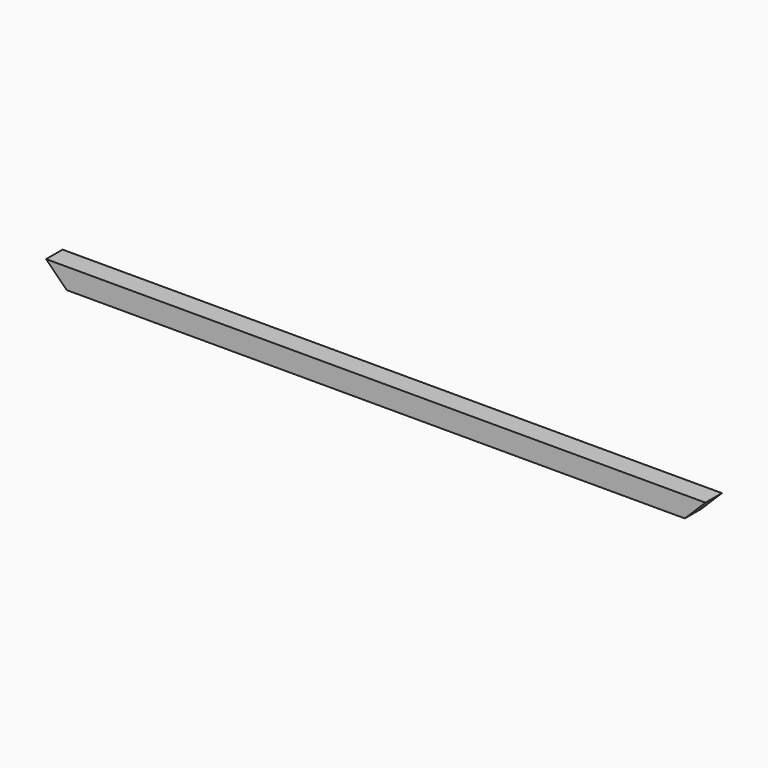
from build123d import *

# Parameters (mm, degrees)
F0_W          = 25
F0_H          = 25
F1_DEPTH      = 800
F3_DEPTH      = 12.501
F3_DEPTH_BACK = 12.501
F5_DEPTH      = 12.501
F5_DEPTH_BACK = 12.501


with BuildPart() as f1:
    # F0 (on Right) → F1 (new body)
    with BuildSketch(Plane.YZ):
        Rectangle(F0_W, F0_H)
    extrude(amount=F1_DEPTH)

    # F2 (on Front) → F3 (cut, two sides)
    with BuildSketch(Plane.XZ) as f3_sk:
        Polygon((25, -12.5), (0, 12.5), (0, -12.5), align=None)
    extrude(amount=-F3_DEPTH, mode=Mode.SUBTRACT)
    extrude(f3_sk.sketch, amount=F3_DEPTH_BACK, mode=Mode.SUBTRACT)

    # F4 (on Front) → F5 (cut, two sides)
    with BuildSketch(Plane.XZ) as f5_sk:
        Polygon((800, -12.5), (800, 12.5), (775, -12.5), align=None)
    extrude(amount=-F5_DEPTH, mode=Mode.SUBTRACT)
    extrude(f5_sk.sketch, amount=F5_DEPTH_BACK, mode=Mode.SUBTRACT)


solid = f1.part
